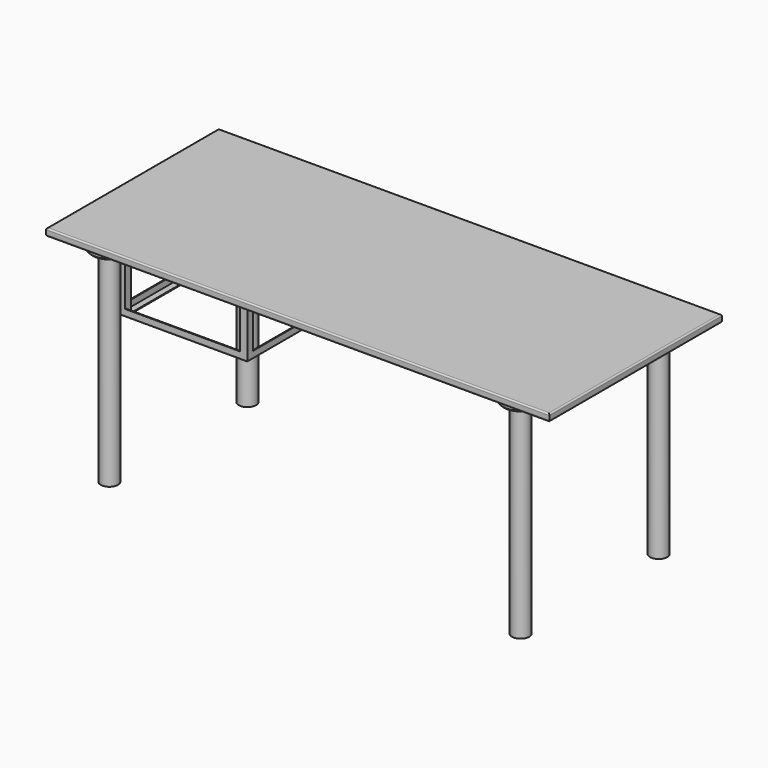
from build123d import *

# Parameters (mm, degrees)
F0_W      = 1750
F0_H      = 750
F1_DEPTH  = 25
F2_W      = 1600
F2_H      = 300
F3_DEPTH  = 25
F4_R      = 62.5
F4_R_2    = 30
F5_DEPTH  = 20
F6_DEPTH  = 730
F7_W      = 25
F7_H      = 25
F8_DEPTH  = 300
F10_DEPTH = 300
F12_DEPTH = 400
F13_R     = 5
F14_R     = 5
F15_SIZE  = 5


with BuildPart() as f1:
    # F0 (on Top) → F1 (new body)
    with BuildSketch(Plane.XY):
        with Locations((101.9007265568, 24.7452616992)):
            Rectangle(F0_W, F0_H)
    extrude(amount=F1_DEPTH)

    # F2 (on face) → F3 (join)
    with BuildSketch(Plane(origin=(0, 0, 0), x_dir=(1, 0, 0), z_dir=(0, 0, -1))):
        Polygon((-698.0992734432, 300.2547383008), (-723.0992734432, 300.2547383008), (-723.0992734432, -324.7452616992), (-723.0992734432, -349.7452616992), (-698.0992734432, -349.7452616992), (-698.0992734432, -249.7452616992), (901.9007265568, -249.7452616992), (901.9007265568, -349.7452616992), (926.9007265568, -349.7452616992), (926.9007265568, -324.7452616992), (926.9007265568, 300.2547383008), (901.9007265568, 300.2547383008), (901.9007265568, 100.2547383008), (-698.0992734432, 100.2547383008), align=None)
        with Locations((101.9007265568, -74.7452616992)):
            Rectangle(F2_W, F2_H, mode=Mode.SUBTRACT)
    extrude(amount=F3_DEPTH)

    # F4 (on face) → F5 (join)
    with BuildSketch(Plane(origin=(0, 0, 0), x_dir=(1, 0, 0), z_dir=(0, 0, -1))):
        with Locations((816.9007265568, 275.2547383008)):
            Circle(F4_R)
        with Locations((816.9007265568, 275.2547383008)):
            Circle(F4_R_2, mode=Mode.SUBTRACT)
        with Locations((-613.0992734432, 275.2547383008)):
            Circle(F4_R)
        with Locations((-613.0992734432, 275.2547383008)):
            Circle(F4_R_2, mode=Mode.SUBTRACT)
        with Locations((-613.0992734432, -324.7452616992)):
            Circle(F4_R)
        with Locations((-613.0992734432, -324.7452616992)):
            Circle(F4_R_2, mode=Mode.SUBTRACT)
        with Locations((816.9007265568, -324.7452616992)):
            Circle(F4_R)
        with Locations((816.9007265568, -324.7452616992)):
            Circle(F4_R_2, mode=Mode.SUBTRACT)
    extrude(amount=F5_DEPTH)

    # F6 (add): faces of the model
    f6_faces = [f1.faces().sort_by_distance(p)[0] for p in [
        (816.9007265568, 324.7452616992, 0),
        (-613.0992734432, 324.7452616992, 0),
        (-613.0992734432, -275.2547383008, 0),
        (816.9007265568, -275.2547383008, 0),
    ]]
    extrude(f6_faces, amount=F6_DEPTH)

    # F7 (on face) → F8 (join)
    with BuildSketch(Plane(origin=(0, 0, -25), x_dir=(1, 0, 0), z_dir=(0, 0, -1))):
        with Locations((-710.5992734432, 87.7547383008)):
            Rectangle(F7_W, F7_H)
        with Locations((-285.5992734432, 87.7547383008)):
            Rectangle(F7_W, F7_H)
        with Locations((-285.5992734432, -237.2452616992)):
            Rectangle(F7_W, F7_H)
        with Locations((-710.5992734432, -237.2452616992)):
            Rectangle(F7_W, F7_H)
    extrude(amount=F8_DEPTH)

    # F9 (on face) → F10 (join, through all)
    with BuildSketch(Plane.XZ.offset(-224.7452616992)):
        Polygon((-723.0992734432, -300), (-723.0992734432, -325), (-720.0992734432, -325), (-719.87169981, -325), (-698.0992734432, -325), (-698.0992734432, -322), (-720.0992734432, -322), (-720.0992734432, -300), align=None)
        Polygon((-298.0992734432, -322), (-298.0992734432, -325), (-273.0992734432, -325), (-273.0992734432, -300), (-276.0992734432, -300), (-276.0992734432, -322), align=None)
    extrude(amount=F10_DEPTH)

    # F11 (on face) → F12 (join, through all)
    with BuildSketch(Plane(origin=(-298.0992734432, 0, 0), x_dir=(0, -1, 0), z_dir=(-1, 0, 0))):
        Polygon((-224.7452616992, -325), (-224.7452616992, -322), (-246.7452616992, -322), (-246.7452616992, -300), (-249.7452616992, -300), (-249.7452616992, -322), (-249.7452616992, -325), align=None)
        Polygon((97.2547383008, -322), (75.2547383008, -322), (75.2547383008, -325), (100.2547383008, -325), (100.2547383008, -322), (100.2547383008, -300), (97.2547383008, -300), align=None)
    extrude(amount=F12_DEPTH)

    # F13
    f13_edges = [f1.edges().sort_by_distance(p)[0] for p in [
        (-723.099273, 74.745262, -325),
        (-498.099273, -100.254738, -325),
        (-273.099273, 74.745262, -325),
        (-498.099273, 249.745262, -325),
    ]]
    fillet(f13_edges, radius=F13_R)

    # F14
    f14_edges = [f1.edges().sort_by_distance(p)[0] for p in [
        (101.900727, 399.745262, 25),
        (-773.099273, 24.745262, 25),
        (101.900727, -350.254738, 25),
        (976.900727, 24.745262, 25),
        (101.900727, -350.254738, 0),
        (-773.099273, 24.745262, 0),
        (976.900727, 24.745262, 0),
        (101.900727, 399.745262, 0),
    ]]
    fillet(f14_edges, radius=F14_R)

    # F15
    f15_edges = [f1.edges().sort_by_distance(p)[0] for p in [
        (-675.599273, -275.254738, -20),
        (754.400727, -275.254738, -20),
        (754.400727, 324.745262, -20),
        (-675.599273, 324.745262, -20),
    ]]
    chamfer(f15_edges, length=F15_SIZE)


solid = f1.part
